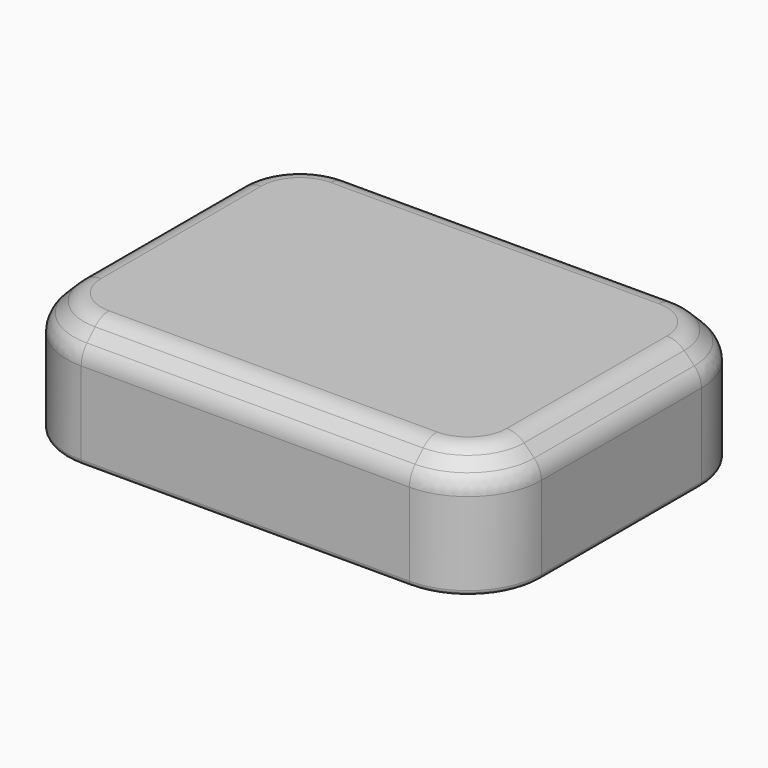
from build123d import *

# Parameters (mm, degrees)
F0_W     = 97.1741192043
F0_H     = 70.9515530616
F1_DEPTH = 25
F2_R     = 15
F3_SIZE  = 5
F4_R     = 5
F5_T     = -2.5
F6_R     = 1


with BuildPart() as f1:
    # F0 (on Top) → F1 (new body)
    with BuildSketch(Plane.XY):
        with Locations((-16.4708662778, 12.1098598465)):
            Rectangle(F0_W, F0_H)
    extrude(amount=F1_DEPTH)

    # F2
    f2_edges = [f1.edges().sort_by_distance(p)[0] for p in [
        (-65.057926, -23.365917, 12.5),
        (32.116193, -23.365917, 12.5),
        (32.116193, 47.585636, 12.5),
        (-65.057926, 47.585636, 12.5),
    ]]
    fillet(f2_edges, radius=F2_R)

    # F3
    f3_edges = [f1.edges().sort_by_distance(p)[0] for p in [
        (-65.057926, 12.10986, 25),
    ]]
    chamfer(f3_edges, length=F3_SIZE)

    # F4
    f4_edges = [f1.edges().sort_by_distance(p)[0] for p in [
        (-65.057926, 12.10986, 20),
        (-60.057926, 12.10986, 25),
    ]]
    fillet(f4_edges, radius=F4_R)

    # F5
    f5_openings = [f1.faces().sort_by_distance(p)[0] for p in [
        (-16.470866, 12.10986, 0),
    ]]
    offset(amount=F5_T, openings=f5_openings)

    # F6
    f6_edges = [f1.edges().sort_by_distance(p)[0] for p in [
        (-16.470866, -20.865917, 0),
        (-60.664528, -18.972518, 0),
    ]]
    fillet(f6_edges, radius=F6_R)


solid = f1.part
